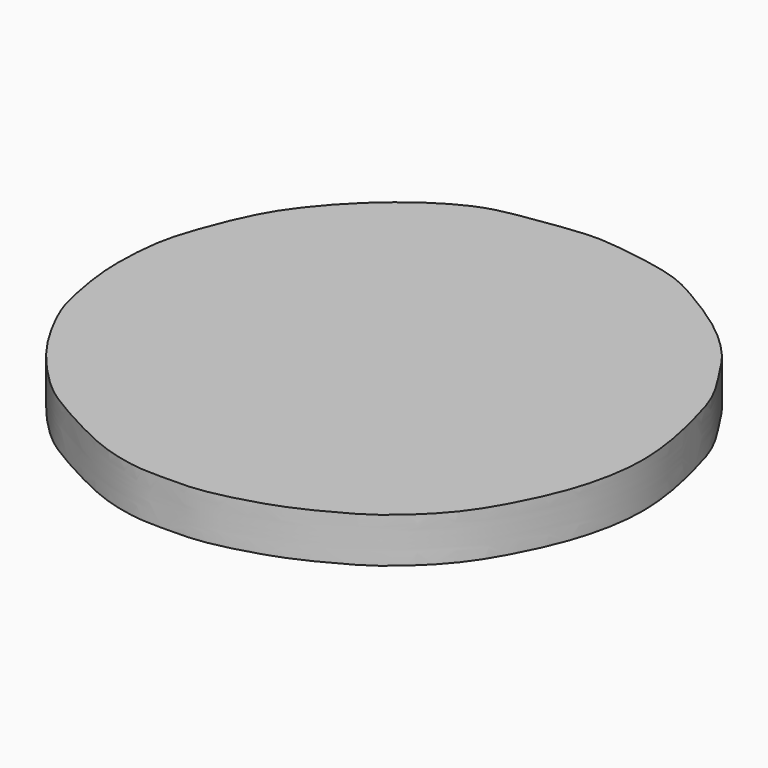
from build123d import *

# Parameters (mm, degrees)
F1_DEPTH = 3


with BuildPart() as f1:
    # F0 (on Top) → F1 (new body)
    with BuildSketch(Plane.XY):
        with BuildLine():
            add(Edge.make_bspline(
                [(-6.5334332176, 19.0257765353), (-7.7679743094, 18.4828983031), (-10.5453770299, 16.5979455392), (-13.2951259411, 13.5732227963), (-14.8911589829, 11.1746837401), (-16.3248785587, 7.4414622639), (-16.8799931647, 5.2724118535), (-17.0625071429, 1.7035171442), (-16.6189251548, -0.9616554199), (-16.1645375136, -3.2481131898), (-14.9198958073, -5.7198294239), (-13.5472571, -7.938731676), (-11.1028387332, -10.5859717995), (-9.4096315397, -11.7545557819), (-6.871246768, -13.1691530075), (-4.138061228, -14.4854637133), (-1.7925018306, -14.9371390538), (-0.9008226264, -14.9659240699), (1.5729288002, -15.0171300187), (3.4950738208, -14.7450824597), (6.9369617805, -13.7982612955), (9.6362721717, -12.3941128612), (11.6616357767, -11.2534578798), (14.5727873863, -8.5408682496), (16.2904028222, -5.550747647), (17.8021545214, -2.2384837344), (18.6561431219, 2.1956420494), (17.8908392932, 6.0969596475), (17.5837854779, 7.2230345448), (16.938497602, 9.9399258045), (15.4999052842, 12.0636491626), (14.356763943, 13.9788716377), (11.9768169113, 16.3170250679), (8.5707279483, 18.4264022085), (6.2851777242, 19.6360172271), (1.7982671168, 20.2758281908), (0.0800087182, 20.3326074378), (-3.7178636005, 19.7940013404), (-5.5324578659, 19.4659463546), (-6.5334332176, 19.0257765353)],
                knots=[0, 0, 0, 0, 0.0340906641, 0.066027234, 0.0931336014, 0.124129307, 0.1483244851, 0.1777728063, 0.2039690054, 0.2279142744, 0.2537981441, 0.279869889, 0.3094655758, 0.3323204173, 0.3589529912, 0.3872022625, 0.4108346037, 0.4260186498, 0.4500897308, 0.472866975, 0.5025361284, 0.5301108613, 0.5541982196, 0.5853040985, 0.6148020455, 0.6447441778, 0.6788444032, 0.7095134448, 0.7268124572, 0.7525831854, 0.7781402424, 0.8014685466, 0.830351751, 0.8617238966, 0.8879576297, 0.9206658471, 0.9423378191, 0.972359029, 1, 1, 1, 1], degree=3))
        make_face()
    extrude(amount=F1_DEPTH)


solid = f1.part
